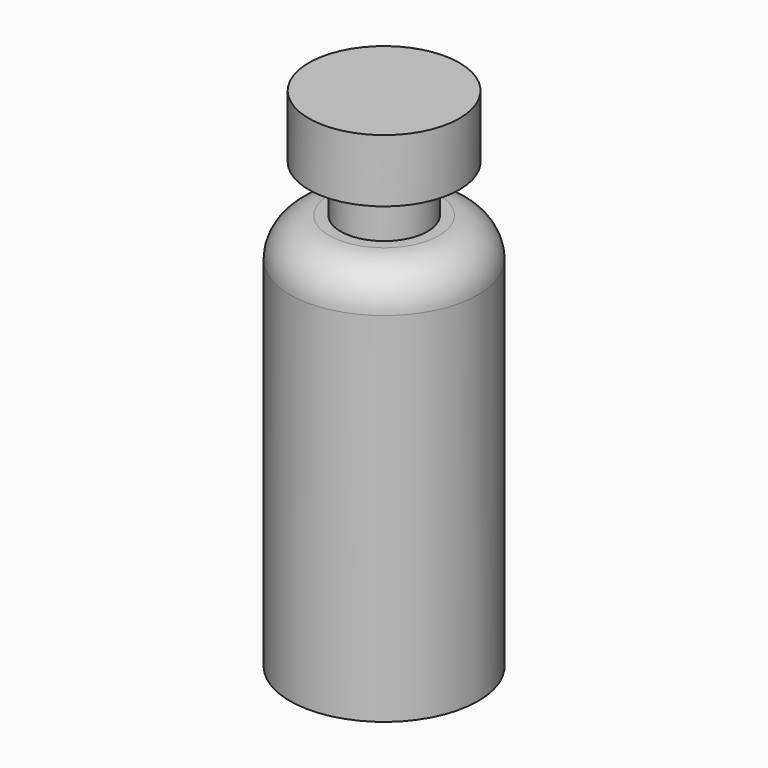
from build123d import *

# Parameters (mm, degrees)
F2_R = 2.5


with BuildPart() as f1:
    # F0 (on Front) → F1 (revolve)
    with BuildSketch(Plane.XZ):
        Polygon((0, 32.3), (0, 0), (6, 0), (6, 25.3), (2.774194, 25.3), (2.774194, 28.3), (4.8, 28.3), (4.8, 32.3), align=None)
    revolve(axis=Axis((0, 0, 20.56456), (0, 0, 1)))

    # F2
    f2_edges = [f1.edges().sort_by_distance(p)[0] for p in [
        (-6, 0, 25.3),
    ]]
    fillet(f2_edges, radius=F2_R)


solid = f1.part
